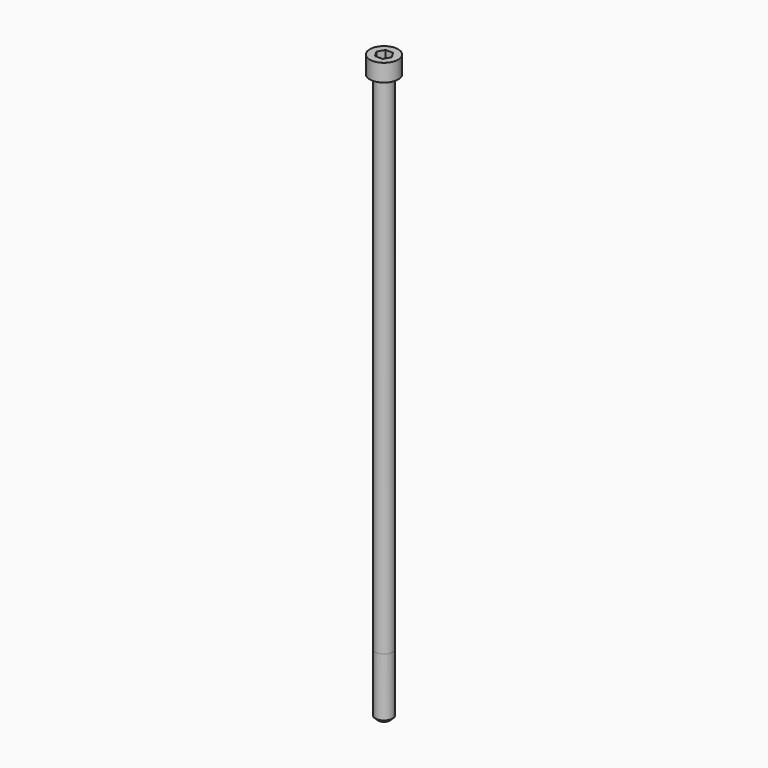
from build123d import *

# Parameters (mm, degrees)
POCKET_DEPTH = 6.06


with BuildPart() as part:
    # Sketch → Revolve (revolve)
    with BuildSketch(Plane.YZ):
        with BuildLine():
            Line((3.999, 0), (6.5, 0))
            Line((6.5, 0), (6.5, 7.97229))
            ThreePointArc((6.5, 7.97229), (6.491884, 7.991884), (6.47229, 8))
            Line((6.47229, 8), (0, 8))
            Line((0, -260), (0, 8))
            Line((2.75, -260), (0, -260))
            Line((4, -258.75), (2.75, -260))
            Line((4, -232), (4, -258.75))
            Line((3.999, 0), (4, -232))
        make_face()
    revolve(axis=Axis((0, 0, 0), (0, 0, 1)))

    # Sketch001 → Pocket (cut)
    with BuildSketch(Plane.XY.offset(8)):
        Polygon((3.498743, 0), (1.749371, 3.03), (-1.749371, 3.03), (-3.498743, 0), (-1.749371, -3.03), (1.749371, -3.03), align=None)
    extrude(amount=-POCKET_DEPTH, mode=Mode.SUBTRACT)


solid = part.part
